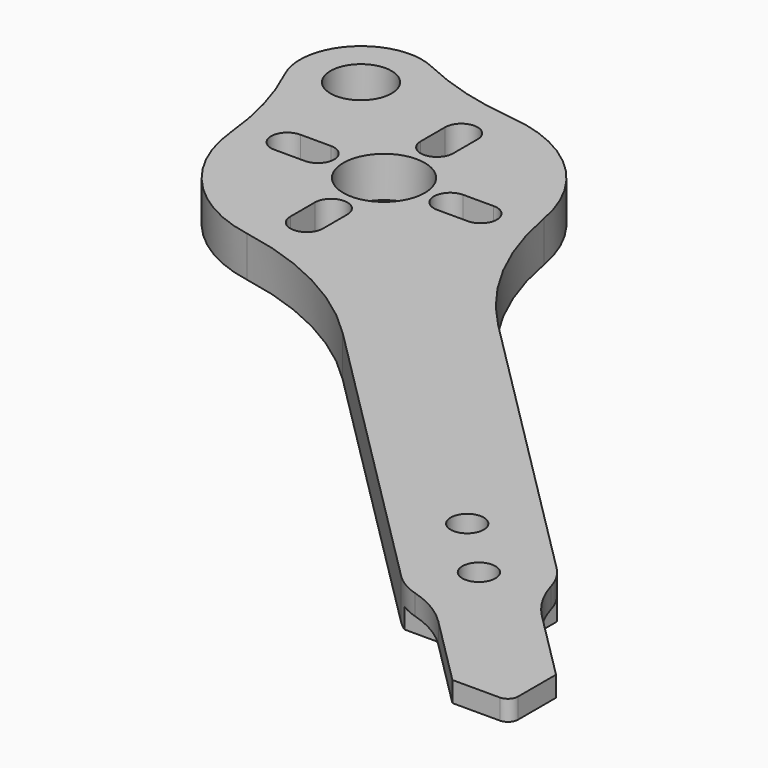
from build123d import *

# Parameters (mm, degrees)
F0_R     = 1.625
F0_R_2   = 4
F0_R_3   = 3
F1_DEPTH = 4
F3_DEPTH = 25
F5_DEPTH = 2
F6_R     = 1


with BuildPart() as f1:
    # F0 (on Top) → F1 (new body)
    with BuildSketch(Plane.XY):
        with BuildLine():
            ThreePointArc((-9.4837298081, 16.9083510106), (-10.0814206469, 18.2972590095), (-11.0073593129, 19.4926406871))
            Line((-11.0073593129, 19.4926406871), (-39.7406588467, 48.2259402209))
            ThreePointArc((-39.7406588467, 48.2259402209), (-45.1494727757, 55.6091692733), (-48.0804471902, 64.2796207229))
            ThreePointArc((-48.0804471902, 64.2796207229), (-52.3618521384, 72.1460862496), (-60.5351583135, 75.8078855862))
            ThreePointArc((-60.5351583135, 75.8078855862), (-65.6898975166, 76.7624502228), (-70.5997654152, 78.5997654152))
            ThreePointArc((-70.5997654152, 78.5997654152), (-77.4281925399, 77.4281925399), (-78.5997654152, 70.5997654152))
            ThreePointArc((-78.5997654152, 70.5997654152), (-76.7624502228, 65.6898975166), (-75.8078855862, 60.5351583135))
            ThreePointArc((-75.8078855862, 60.5351583135), (-72.1460862496, 52.3618521384), (-64.2796207229, 48.0804471902))
            ThreePointArc((-64.2796207229, 48.0804471902), (-55.6091692733, 45.1494727757), (-48.2259402209, 39.7406588467))
            Line((-48.2259402209, 39.7406588467), (-19.4926406871, 11.0073593129))
            ThreePointArc((-19.4926406871, 11.0073593129), (-18.2972590095, 10.0814206469), (-16.9083510106, 9.4837298081))
            ThreePointArc((-16.9083510106, 9.4837298081), (-14.5935043457, 8.4875784101), (-12.6012015497, 6.9443473002))
            Line((-12.6012015497, 6.9443473002), (-5.6568542495, 0))
            Line((-5.6568542495, 0), (0, 0))
            Line((0, 0), (0, 5.6568542495))
            Line((0, 5.6568542495), (-6.9443473002, 12.6012015497))
            ThreePointArc((-6.9443473002, 12.6012015497), (-8.4875784101, 14.5935043457), (-9.4837298081, 16.9083510106))
        make_face()
        with Locations((-15.25, 15.25)):
            Circle(F0_R, mode=Mode.SUBTRACT)
        with Locations((-21, 21)):
            Circle(F0_R, mode=Mode.SUBTRACT)
        with Locations((-61.8718433538, 61.8718433538)):
            Circle(F0_R_2, mode=Mode.SUBTRACT)
        with Locations((-73.1855518528, 73.1855518528)):
            Circle(F0_R_3, mode=Mode.SUBTRACT)
    extrude(amount=F1_DEPTH)

    # F2 (on face) → F3 (cut)
    with BuildSketch(Plane.XY.offset(4)):
        with BuildLine():
            ThreePointArc((-55.3718433538, 63.4718433538), (-56.9718433538, 61.8718433538), (-55.3718433538, 60.2718433538))
            Line((-55.3718433538, 60.2718433538), (-52.3718433538, 60.2718433538))
            ThreePointArc((-52.3718433538, 60.2718433538), (-50.7718433538, 61.8718433538), (-52.3718433538, 63.4718433538))
            Line((-52.3718433538, 63.4718433538), (-55.3718433538, 63.4718433538))
        make_face()
        with BuildLine():
            Line((-63.4718433538, 71.3718433538), (-63.4718433538, 68.3718433538))
            ThreePointArc((-63.4718433538, 68.3718433538), (-61.8718433538, 66.7718433538), (-60.2718433538, 68.3718433538))
            Line((-60.2718433538, 68.3718433538), (-60.2718433538, 71.3718433538))
            ThreePointArc((-60.2718433538, 71.3718433538), (-61.8718433538, 72.9718433538), (-63.4718433538, 71.3718433538))
        make_face()
        with BuildLine():
            Line((-71.3718433538, 60.2718433538), (-68.3718433538, 60.2718433538))
            ThreePointArc((-68.3718433538, 60.2718433538), (-66.7718433538, 61.8718433538), (-68.3718433538, 63.4718433538))
            Line((-68.3718433538, 63.4718433538), (-71.3718433538, 63.4718433538))
            ThreePointArc((-71.3718433538, 63.4718433538), (-72.9718433538, 61.8718433538), (-71.3718433538, 60.2718433538))
        make_face()
        with BuildLine():
            Line((-60.2718433538, 52.3718433538), (-60.2718433538, 55.3718433538))
            ThreePointArc((-60.2718433538, 55.3718433538), (-61.8718433538, 56.9718433538), (-63.4718433538, 55.3718433538))
            Line((-63.4718433538, 55.3718433538), (-63.4718433538, 52.3718433538))
            ThreePointArc((-63.4718433538, 52.3718433538), (-61.8718433538, 50.7718433538), (-60.2718433538, 52.3718433538))
        make_face()
    extrude(amount=-F3_DEPTH, mode=Mode.SUBTRACT)

    # F4 (on face) → F5 (cut)
    with BuildSketch(Plane(origin=(0, 0, 0), x_dir=(1, 0, 0), z_dir=(0, 0, -1))):
        with BuildLine():
            Line((0, 0), (-20, 0))
            Line((-20, 0), (-20, -10.25))
            Line((-20, -10.25), (-15.25, -10.25))
            ThreePointArc((-15.25, -10.25), (-11.7144660941, -11.7144660941), (-10.25, -15.25))
            Line((-10.25, -15.25), (-10.25, -20))
            Line((-10.25, -20), (0, -20))
            Line((0, -20), (0, 0))
        make_face()
    extrude(amount=-F5_DEPTH, mode=Mode.SUBTRACT)

    # F6
    f6_edges = [f1.edges().sort_by_distance(p)[0] for p in [
        (0, 0, 3),
    ]]
    fillet(f6_edges, radius=F6_R)


solid = f1.part
